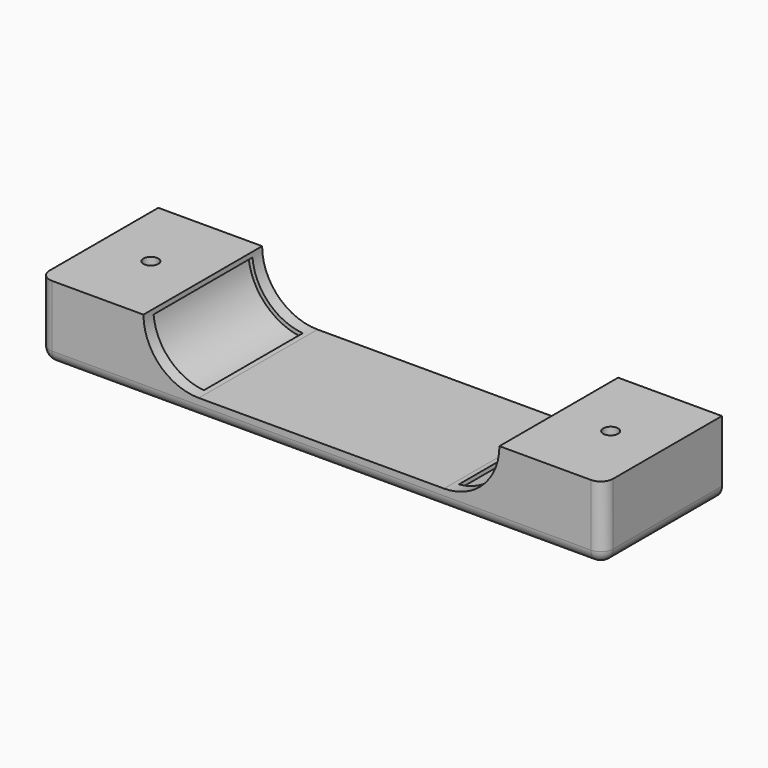
from build123d import *

# Parameters (mm, degrees)
SKETCH_W         = 114
SKETCH_H         = 30
PAD_DEPTH        = 15
POCKET_DEPTH     = 30.001
POCKET001_DEPTH  = 12.5
HOLE_D           = 3
HOLE_CBORE_D     = 6
HOLE_CBORE_DEPTH = 3.5
FILLET_R         = 2.5


with BuildPart() as part:
    # Sketch → Pad (new body)
    with BuildSketch(Plane.XY):
        Rectangle(SKETCH_W, SKETCH_H)
    extrude(amount=PAD_DEPTH)

    # Sketch001 (on Face2 of Pad) → Pocket (cut, through all)
    with BuildSketch(Plane.XZ.offset(15)):
        with BuildLine():
            ThreePointArc((-36, 15), (-32.719596, 7.080404), (-24.8, 3.8))
            Line((-24.8, 3.8), (24.8, 3.8))
            ThreePointArc((24.8, 3.8), (32.719596, 7.080404), (36, 15))
            Line((-36, 15), (36, 15))
        make_face()
    extrude(amount=-POCKET_DEPTH, mode=Mode.SUBTRACT)

    # Sketch002 (on DatumPlane) → Pocket001 (cut, symmetric)
    with BuildSketch(Plane.XZ):
        with BuildLine():
            ThreePointArc((-36.754336, 13.954131), (-33.285281, 6.514719), (-25.845869, 3.045664))
            Line((-24.8, 15), (-25.845869, 3.045664))
            Line((-36.754336, 13.954131), (-24.8, 15))
        make_face()
        with BuildLine():
            ThreePointArc((25.845869, 3.045664), (33.285281, 6.514719), (36.754336, 13.954131))
            Line((36.754336, 13.954131), (24.8, 15))
            Line((25.845869, 3.045664), (24.8, 15))
        make_face()
    extrude(amount=POCKET001_DEPTH, both=True, mode=Mode.SUBTRACT)

    # Hole (through all)
    with Locations(Plane(origin=(0, 0, 0), x_dir=(1, 0, 0), z_dir=(0, 0, -1))):
        with Locations((-46.5, 0), (46.5, 0)):
            CounterBoreHole(HOLE_D / 2, HOLE_CBORE_D / 2, HOLE_CBORE_DEPTH)

    # Fillet
    fillet_edges = [part.edges().sort_by_distance(p)[0] for p in [
        (-57, -15, 7.5),
        (57, -15, 7.5),
        (57, 0, 0),
        (-57, 0, 0),
        (0, -15, 0),
    ]]
    fillet(fillet_edges, radius=FILLET_R)


solid = part.part
